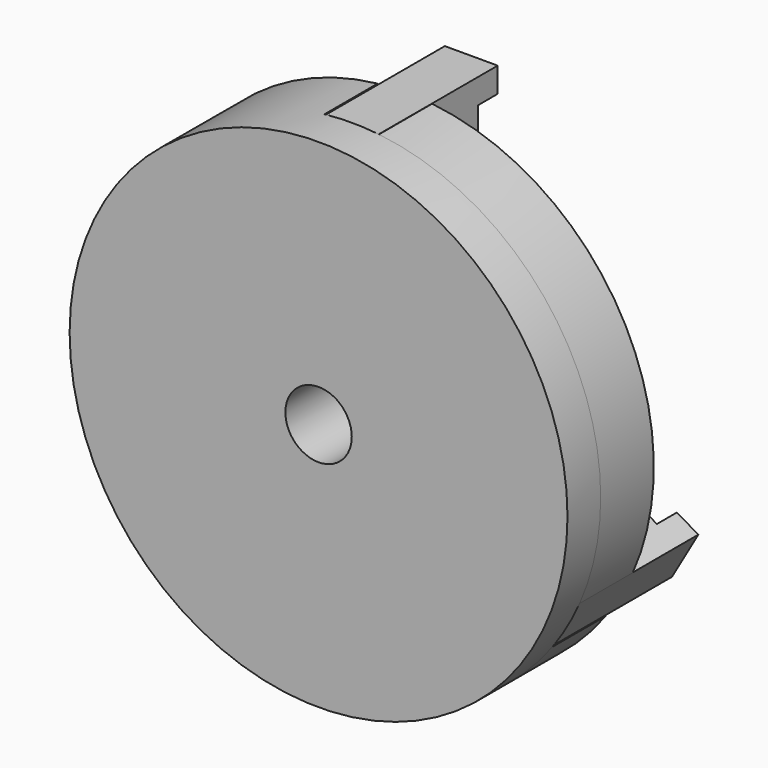
from build123d import *

# Parameters (mm, degrees)
F0_R     = 1.5
F0_R_2   = 4
F1_DEPTH = 8
F2_R     = 30
F2_R_2   = 4
F3_DEPTH = 5
F0_W     = 6.3729899472
F0_H     = 12.6655128555
F4_DEPTH = 18
F5_W     = 2
F5_H     = 2
F6_DEPTH = 12.5
F8_COUNT = 3


with BuildPart() as f1:
    # F0 (on Front) → F1 (new body)
    with BuildSketch(Plane.XZ):
        with BuildLine():
            ThreePointArc((27.4676392862, -12.0635314913), (29.3600849674, -6.1632305414), (30, 0))
            ThreePointArc((30, 0), (22.3449641684, 20.0175567019), (3.2864949123, 29.8194391495))
            Line((3.2864949123, 29.8194391495), (3.2864949123, 15))
            Line((3.2864949123, 15), (-3.2864949123, 15))
            Line((-3.2864949123, 15), (-3.2864949123, 29.8194391495))
            ThreePointArc((-3.2864949123, 29.8194391495), (-25.9807621135, 15), (-27.4676392862, -12.0635314913))
            Line((-27.4676392862, -12.0635314913), (-14.6336285129, -4.6538119165))
            Line((-14.6336285129, -4.6538119165), (-11.3471336006, -10.3461880835))
            Line((-11.3471336006, -10.3461880835), (-24.1811443739, -17.7559076583))
            ThreePointArc((-24.1811443739, -17.7559076583), (0, -30), (24.1811443739, -17.7559076583))
            Line((24.1811443739, -17.7559076583), (11.3471336006, -10.3461880835))
            Line((11.3471336006, -10.3461880835), (14.6336285129, -4.6538119165))
            Line((14.6336285129, -4.6538119165), (27.4676392862, -12.0635314913))
        make_face()
        with Locations((0, -18)):
            Circle(F0_R, mode=Mode.SUBTRACT)
        with Locations((0, -10)):
            Circle(F0_R, mode=Mode.SUBTRACT)
        with Locations((-15.5884572681, 9)):
            Circle(F0_R, mode=Mode.SUBTRACT)
        with Locations((-8.6602540378, 5)):
            Circle(F0_R, mode=Mode.SUBTRACT)
        Circle(F0_R_2, mode=Mode.SUBTRACT)
        with Locations((8.6602540378, 5)):
            Circle(F0_R, mode=Mode.SUBTRACT)
        with Locations((15.5884572681, 9)):
            Circle(F0_R, mode=Mode.SUBTRACT)
    extrude(amount=-F1_DEPTH)

    # F2 (on Front) → F3 (join)
    with BuildSketch(Plane.XZ):
        Circle(F2_R)
        Circle(F2_R_2, mode=Mode.SUBTRACT)
    extrude(amount=F3_DEPTH)


with BuildPart() as f4:
    # F0 (on Front) → F4 (new body)
    with BuildSketch(Plane.XZ):
        with Locations((0, 23.4327563665)):
            Rectangle(F0_W, F0_H)
    extrude(amount=-F4_DEPTH)

    # F5 (on Right) → F6 (cut, symmetric)
    with BuildSketch(Plane.YZ):
        Polygon((18, 17.0999999388), (18, 26.7655127943), (15, 26.7655127943), (15, 23.7655127943), (12, 23.7655127943), (12, 19.0999999388), (12, 17.0999999388), align=None)
        with Locations((11, 18.0999999388)):
            Rectangle(F5_W, F5_H)
    extrude(amount=F6_DEPTH, both=True, mode=Mode.SUBTRACT)


with BuildPart() as f8_1:
    # F8: instance of F4
    add(f4.part.rotate(Axis((0, 32.2213508189, 0), (0, 1, 0)), 1 * 360 / F8_COUNT))


with BuildPart() as f8_2:
    # F8: instance of F4
    add(f4.part.rotate(Axis((0, 32.2213508189, 0), (0, 1, 0)), 2 * 360 / F8_COUNT))


solid = Compound([f1.part, f4.part, f8_1.part, f8_2.part])
